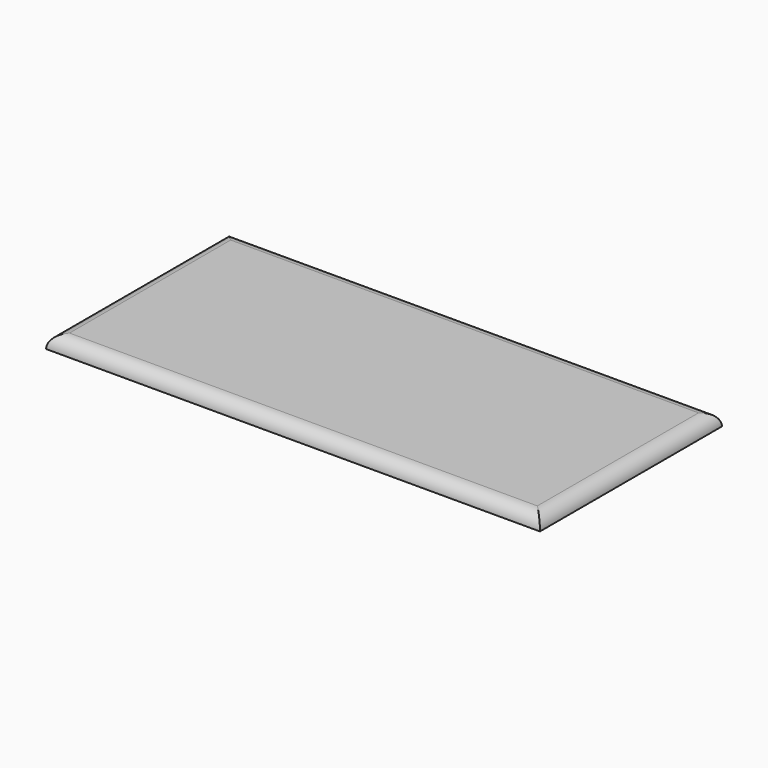
from build123d import *

# Parameters (mm, degrees)
F0_W     = 965.2
F0_H     = 444.5
F1_DEPTH = 25.4


with BuildPart() as f1:
    # F0 (on Top) → F1 (new body)
    with BuildSketch(Plane.XY):
        with Locations((482.6, 222.25)):
            Rectangle(F0_W, F0_H)
    extrude(amount=F1_DEPTH)

    # F3: sweep along a path in F3_path
    with BuildLine(Plane(origin=(0, 0, 25.4), x_dir=(0, -1, 0), z_dir=(0, 0, -1))) as f3_path:
        Line((0, 0), (0, -965.2))
        Line((0, -965.2), (-444.5, -965.2))
        Line((-444.5, -965.2), (-444.5, 0))
        Line((-444.5, 0), (0, 0))
    # F2 (on Right) → F3 (sweep, cut)
    with BuildSketch(Plane.YZ):
        with BuildLine():
            ThreePointArc((0, 0), (7.4394877579, 17.9605122421), (25.4, 25.4))
            Line((25.4, 25.4), (0, 25.4))
            Line((0, 25.4), (0, 0))
        make_face()
    sweep(path=f3_path.line, transition=Transition.RIGHT, mode=Mode.SUBTRACT)


solid = f1.part
